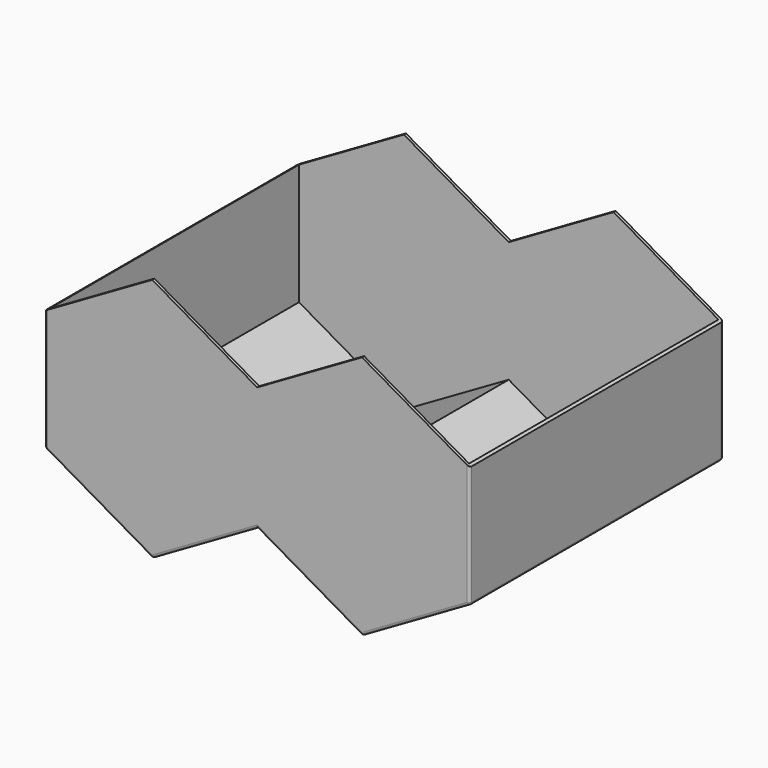
from build123d import *

# Parameters (mm, degrees)
PAD001_DEPTH = 116.4
THICKNESS_T  = 1


with BuildPart() as part:
    # Sketch001 → Pad001 (new body)
    with BuildSketch(Plane.XZ):
        Polygon((0, 67.8), (-39.144348, 90.4), (-78.288697, 67.8), (-78.288697, 22.6), (-39.144348, 0), (0, 22.6), (39.144348, 0), (78.288697, 22.6), (78.288697, 67.8), (39.144348, 90.4), align=None)
    extrude(amount=PAD001_DEPTH)

    # Thickness
    thickness_openings = [part.faces().sort_by_distance(p)[0] for p in [
        (58.716522, -58.2, 79.1),
        (-19.572174, -58.2, 79.1),
        (19.572174, -58.2, 79.1),
        (-58.716522, -58.2, 79.1),
    ]]
    offset(amount=THICKNESS_T, openings=thickness_openings)


solid = part.part
